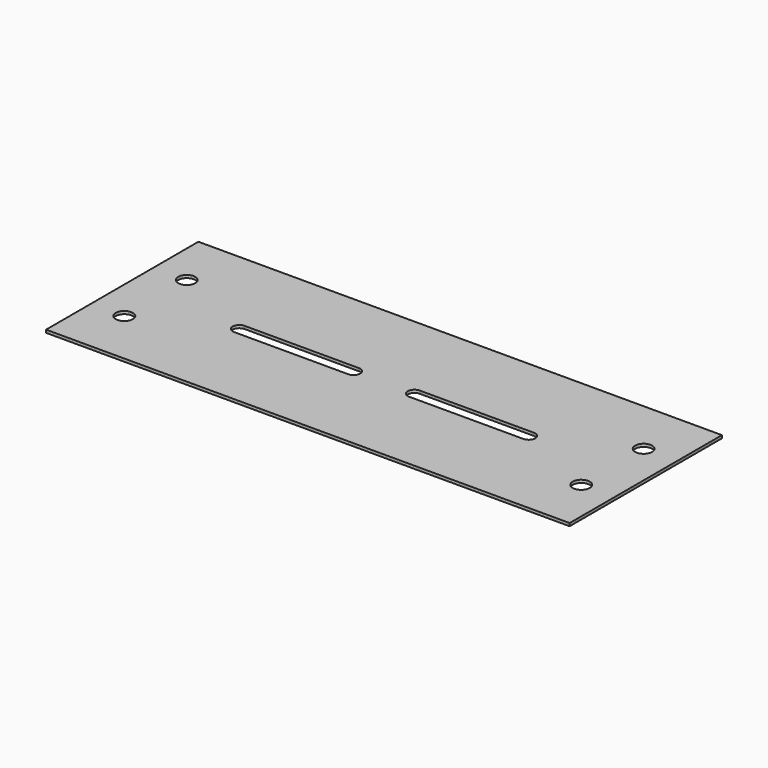
from build123d import *

# Parameters (mm, degrees)
F0_W     = 550
F0_H     = 200
F0_R     = 9
F1_DEPTH = 3


with BuildPart() as f1:
    # F0 (on Top) → F1 (new body)
    with BuildSketch(Plane.XY):
        with Locations((5.8, 2.290218)):
            Rectangle(F0_W, F0_H)
        with Locations((-234.2, -38.709782)):
            Circle(F0_R, mode=Mode.SUBTRACT)
        with Locations((245.8, -38.709782)):
            Circle(F0_R, mode=Mode.SUBTRACT)
        with Locations((-234.2, 43.290218)):
            Circle(F0_R, mode=Mode.SUBTRACT)
        with BuildLine():
            Line((-146.2, 9.290218), (-26.2, 9.290218))
            ThreePointArc((-26.2, 9.290218), (-19.2, 2.290218), (-26.2, -4.709782))
            Line((-26.2, -4.709782), (-146.2, -4.709782))
            ThreePointArc((-146.2, -4.709782), (-153.2, 2.290218), (-146.2, 9.290218))
        make_face(mode=Mode.SUBTRACT)
        with BuildLine():
            ThreePointArc((37.8, -4.709782), (30.8, 2.290218), (37.8, 9.290218))
            Line((37.8, 9.290218), (157.8, 9.290218))
            ThreePointArc((157.8, 9.290218), (164.8, 2.290218), (157.8, -4.709782))
            Line((157.8, -4.709782), (37.8, -4.709782))
        make_face(mode=Mode.SUBTRACT)
        with Locations((245.8, 43.290218)):
            Circle(F0_R, mode=Mode.SUBTRACT)
    extrude(amount=F1_DEPTH)


solid = f1.part
